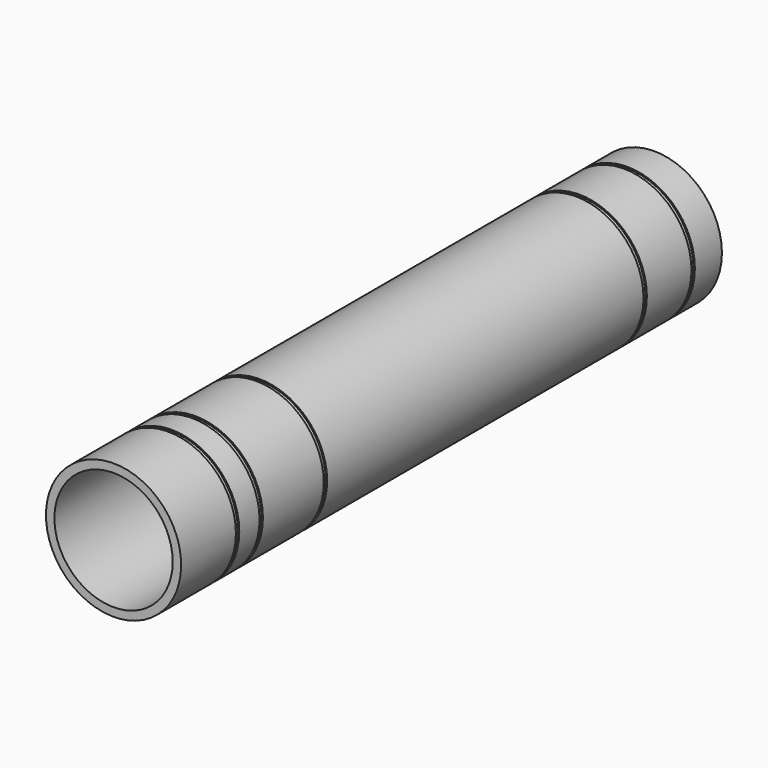
from build123d import *

# Parameters (mm, degrees)
F0_R      = 40
F0_R_2    = 35
F1_DEPTH  = 400
F3_R      = 44
F3_R_2    = 39.15
F4_DEPTH  = 2.5
F6_R      = 42.5
F6_R_2    = 39.15
F7_DEPTH  = 2.5
F10_R     = 42.5
F10_R_2   = 39.15
F11_DEPTH = 2.5
F13_R     = 42.5
F13_R_2   = 39.15
F14_DEPTH = 2.5
F16_R     = 44
F16_R_2   = 39.15
F17_DEPTH = 2.5
F19_R     = 44
F19_R_2   = 39.15
F20_DEPTH = 2.5
F22_R     = 42.5
F22_R_2   = 39.15
F23_DEPTH = 2.5
F25_R     = 44
F25_R_2   = 39.15
F26_DEPTH = 2.5
F28_R     = 44
F28_R_2   = 39.15
F29_DEPTH = 2.5


with BuildPart() as f1:
    # F0 (on Front) → F1 (new body)
    with BuildSketch(Plane.XZ):
        Circle(F0_R)
        Circle(F0_R_2, mode=Mode.SUBTRACT)
    extrude(amount=F1_DEPTH)

    # F3 (on offset) → F4 (cut)
    with BuildSketch(Plane.XZ.offset(20)):
        Circle(F3_R)
        Circle(F3_R_2, mode=Mode.SUBTRACT)
    extrude(amount=F4_DEPTH, mode=Mode.SUBTRACT)

    # F6 (on offset) → F7 (cut)
    with BuildSketch(Plane.XZ.offset(55.5)):
        Circle(F6_R)
        Circle(F6_R_2, mode=Mode.SUBTRACT)
    extrude(amount=F7_DEPTH, mode=Mode.SUBTRACT)

    # F10 (on offset) → F11 (cut)
    with BuildSketch(Plane.XZ.offset(480)):
        Circle(F10_R)
        Circle(F10_R_2, mode=Mode.SUBTRACT)
    extrude(amount=-F11_DEPTH, mode=Mode.SUBTRACT)

    # F13 (on offset) → F14 (cut)
    with BuildSketch(Plane.XZ.offset(444.5)):
        Circle(F13_R)
        Circle(F13_R_2, mode=Mode.SUBTRACT)
    extrude(amount=-F14_DEPTH, mode=Mode.SUBTRACT)

    # F16 (on offset) → F17 (cut)
    with BuildSketch(Plane.XZ.offset(590)):
        Circle(F16_R)
        Circle(F16_R_2, mode=Mode.SUBTRACT)
    extrude(amount=-F17_DEPTH, mode=Mode.SUBTRACT)

    # F19 (on offset) → F20 (cut)
    with BuildSketch(Plane.XZ.offset(600)):
        Circle(F19_R)
        Circle(F19_R_2, mode=Mode.SUBTRACT)
    extrude(amount=-F20_DEPTH, mode=Mode.SUBTRACT)

    # F22 (on offset) → F23 (cut)
    with BuildSketch(Plane.XZ.offset(294.5)):
        Circle(F22_R)
        Circle(F22_R_2, mode=Mode.SUBTRACT)
    extrude(amount=-F23_DEPTH, mode=Mode.SUBTRACT)

    # F25 (on offset) → F26 (cut)
    with BuildSketch(Plane.XZ.offset(357)):
        Circle(F25_R)
        Circle(F25_R_2, mode=Mode.SUBTRACT)
    extrude(amount=F26_DEPTH, mode=Mode.SUBTRACT)

    # F28 (on offset) → F29 (cut)
    with BuildSketch(Plane.XZ.offset(339.5)):
        Circle(F28_R)
        Circle(F28_R_2, mode=Mode.SUBTRACT)
    extrude(amount=F29_DEPTH, mode=Mode.SUBTRACT)


solid = f1.part
